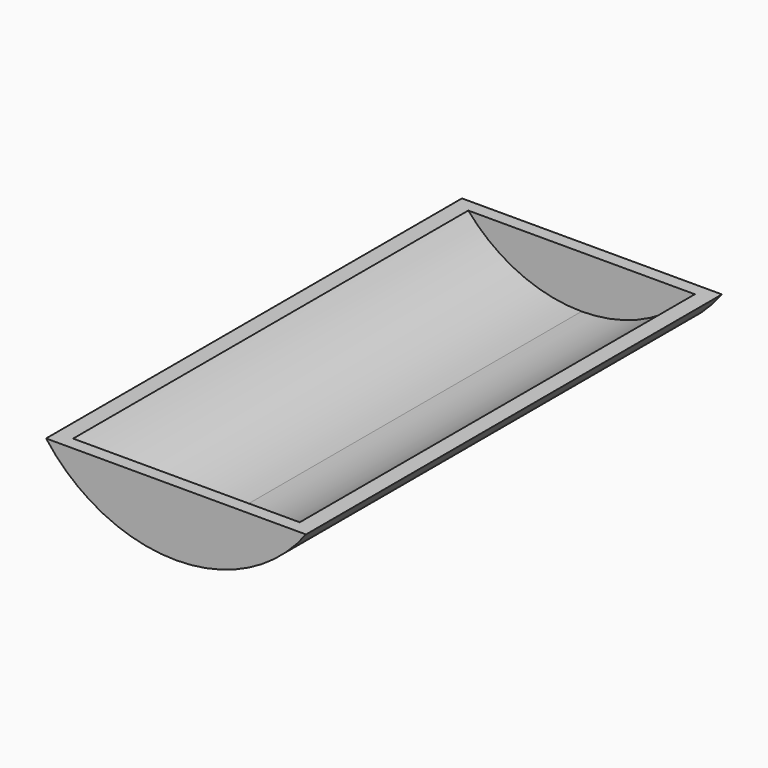
from build123d import *

# Parameters (mm, degrees)
F1_DEPTH = 101.6
F2_T     = -2.54


with BuildPart() as f1:
    # F0 (on Front) → F1 (new body)
    with BuildSketch(Plane.XZ):
        with BuildLine():
            Line((-59.428123, 16.79042), (-84.828123, 16.79042))
            ThreePointArc((-84.828123, 16.79042), (-73.627155, 7.442357), (-59.428123, 4.09042))
            Line((-59.428123, 4.09042), (-59.428123, 16.79042))
        make_face()
        with BuildLine():
            Line((-34.028123, 16.79042), (-59.428123, 16.79042))
            Line((-59.428123, 16.79042), (-59.428123, 4.09042))
            ThreePointArc((-59.428123, 4.09042), (-45.229092, 7.442357), (-34.028123, 16.79042))
        make_face()
    extrude(amount=F1_DEPTH)

    # F2
    f2_openings = [f1.faces().sort_by_distance(p)[0] for p in [
        (-59.428123, -50.8, 16.79042),
    ]]
    offset(amount=F2_T, openings=f2_openings)


solid = f1.part
